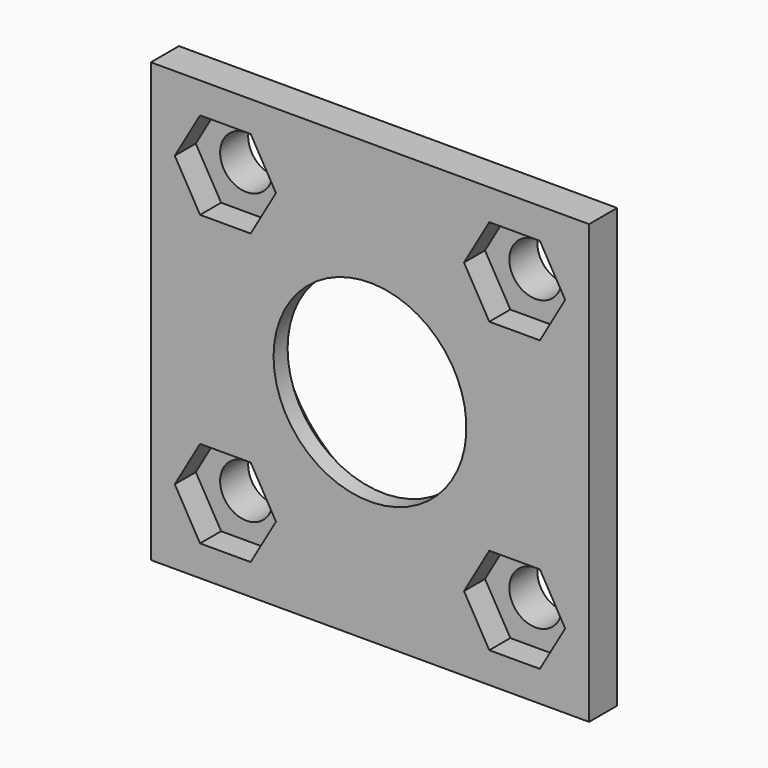
from build123d import *

# Parameters (mm, degrees)
F0_W     = 50
F0_H     = 50
F1_DEPTH = 4
F2_W     = 43.4
F2_H     = 43.4
F3_DEPTH = 3
F4_R     = 3
F4_R_2   = 11
F5_DEPTH = 25
F7_DEPTH = 3
F8_R     = 16
F9_DEPTH = 5
F10_R    = 3


with BuildPart() as f1:
    # F0 (on Front) → F1 (new body)
    with BuildSketch(Plane.XZ):
        Rectangle(F0_W, F0_H)
    extrude(amount=-F1_DEPTH)

    # F2 (on face) → F3 (join)
    with BuildSketch(Plane(origin=(0, 4, 0), x_dir=(-1, 0, 0), z_dir=(0, 1, 0))):
        Rectangle(F2_W, F2_H)
    extrude(amount=F3_DEPTH)

    # F4 (on face) → F5 (cut)
    with BuildSketch(Plane(origin=(0, 7, 0), x_dir=(-1, 0, 0), z_dir=(0, 1, 0))):
        with Locations((-16.5, 16.5)):
            Circle(F4_R)
        with Locations((16.5, 16.5)):
            Circle(F4_R)
        with Locations((16.5, -16.5)):
            Circle(F4_R)
        with Locations((-16.5, -16.5)):
            Circle(F4_R)
        Circle(F4_R_2)
    extrude(amount=-F5_DEPTH, mode=Mode.SUBTRACT)

    # F6 (on face) → F7 (cut)
    with BuildSketch(Plane.XZ):
        Polygon((-19.386751, 11.5), (-13.613249, 11.5), (-10.726497, 16.5), (-13.613249, 21.5), (-19.386751, 21.5), (-22.273503, 16.5), align=None)
        Polygon((19.386751, 21.5), (13.613249, 21.5), (10.726497, 16.5), (13.613249, 11.5), (19.386751, 11.5), (22.273503, 16.5), align=None)
        Polygon((13.613249, -21.5), (19.386751, -21.5), (22.273503, -16.5), (19.386751, -11.5), (13.613249, -11.5), (10.726497, -16.5), align=None)
        Polygon((-19.386751, -21.5), (-13.613249, -21.5), (-10.726497, -16.5), (-13.613249, -11.5), (-19.386751, -11.5), (-22.273503, -16.5), align=None)
    extrude(amount=-F7_DEPTH, mode=Mode.SUBTRACT)

    # F8 (on face) → F9 (cut)
    with BuildSketch(Plane(origin=(0, 7, 0), x_dir=(-1, 0, 0), z_dir=(0, 1, 0))):
        Circle(F8_R)
    extrude(amount=-F9_DEPTH, mode=Mode.SUBTRACT)

    # F10
    f10_edges = [f1.edges().sort_by_distance(p)[0] for p in [
        (21.7, 5.5, 21.7),
        (21.7, 5.5, -21.7),
        (-21.7, 5.5, -21.7),
        (-21.7, 5.5, 21.7),
    ]]
    fillet(f10_edges, radius=F10_R)


solid = f1.part
